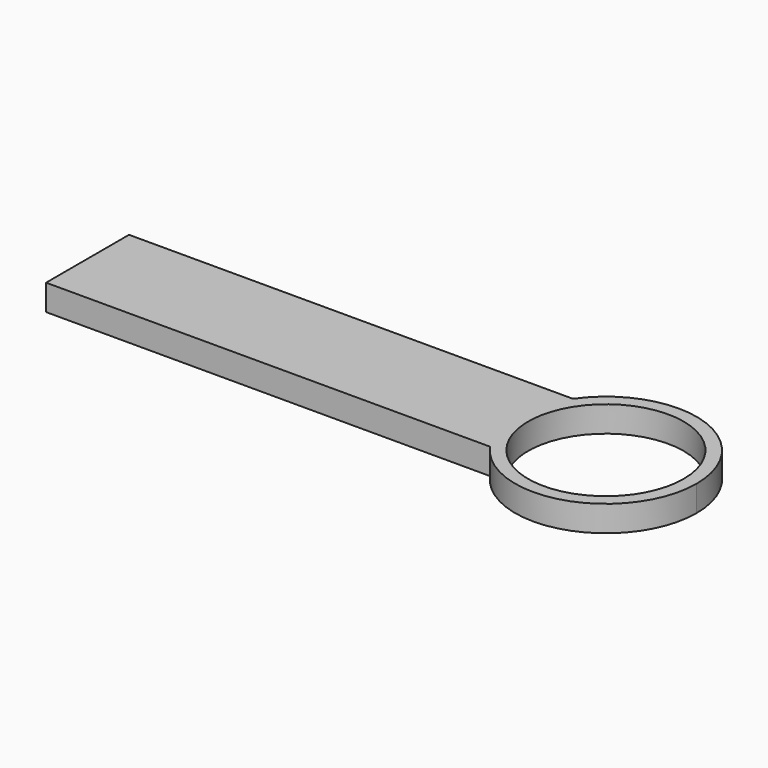
from build123d import *

# Parameters (mm, degrees)
F0_R     = 15
F1_DEPTH = 5


with BuildPart() as f1:
    # F0 (on Top) → F1 (new body)
    with BuildSketch(Plane.XY):
        with BuildLine():
            Line((35.638593, 10), (-50, 10))
            Line((-50, 10), (-50, -10))
            Line((-50, -10), (35.638593, -10))
            ThreePointArc((35.638593, -10), (32.5, 0), (35.638593, 10))
        make_face()
        with BuildLine():
            ThreePointArc((67.5, 0), (55.240486, 16.696925), (35.638593, 10))
            ThreePointArc((35.638593, 10), (32.5, 0), (35.638593, -10))
            ThreePointArc((35.638593, -10), (55.240486, -16.696925), (67.5, 0))
        make_face()
        with Locations((50, 0)):
            Circle(F0_R, mode=Mode.SUBTRACT)
    extrude(amount=F1_DEPTH)


solid = f1.part
